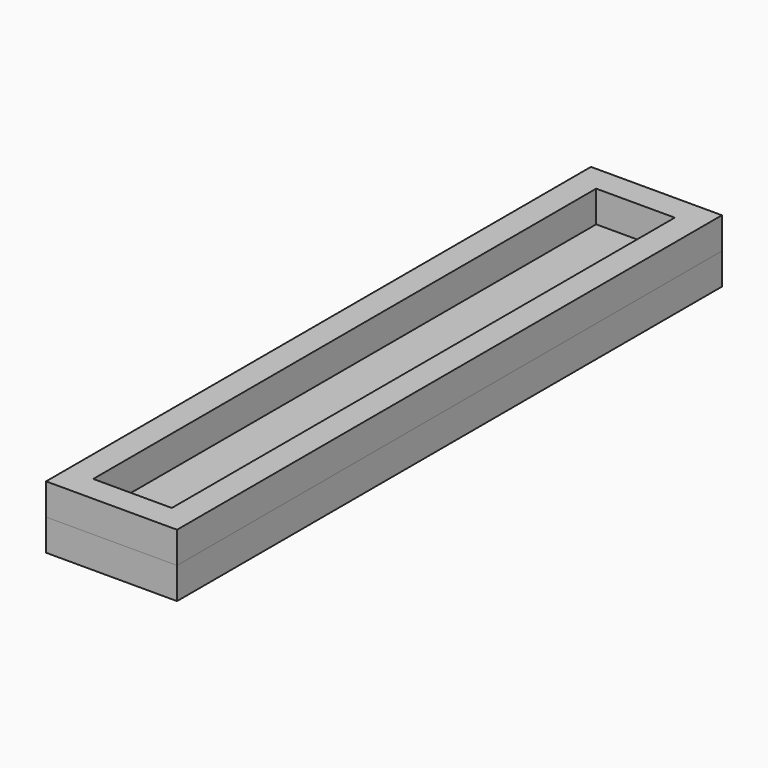
from build123d import *

# Parameters (mm, degrees)
F0_W     = 25
F0_H     = 130
F0_W_2   = 15
F0_H_2   = 120
F1_DEPTH = 6
F2_W     = 25
F2_H     = 130
F3_DEPTH = 6


with BuildPart() as f1:
    # F0 (on Top) → F1 (new body)
    with BuildSketch(Plane.XY):
        with Locations((7.5, 60)):
            Rectangle(F0_W, F0_H)
        with Locations((7.5, 60)):
            Rectangle(F0_W_2, F0_H_2, mode=Mode.SUBTRACT)
    extrude(amount=-F1_DEPTH)


with BuildPart() as f3:
    # F2 (on face) → F3 (new body)
    with BuildSketch(Plane(origin=(0, 0, -6), x_dir=(1, 0, 0), z_dir=(0, 0, -1))):
        with Locations((7.5, -60)):
            Rectangle(F2_W, F2_H)
    extrude(amount=F3_DEPTH)


solid = Compound([f1.part, f3.part])
